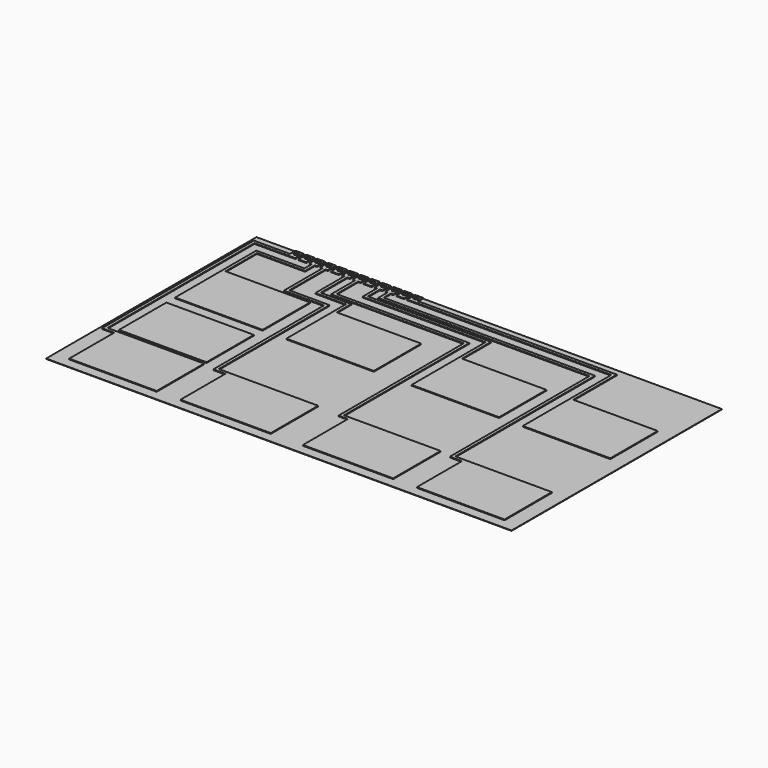
from build123d import *

# Parameters (mm, degrees)
F0_W     = 308
F0_H     = 174
F1_DEPTH = 0.25
F2_R     = 1.6
F2_W     = 57.88946
F2_H     = 39.180715
F3_DEPTH = 0.5


with BuildPart() as f1:
    # F0 (on Top) → F1 (new body)
    with BuildSketch(Plane.XY):
        Rectangle(F0_W, F0_H)
    extrude(amount=F1_DEPTH)

    # F2 (on face) → F3 (join)
    with BuildSketch(Plane.XY.offset(0.25)):
        Polygon((-86.945909, 80.4), (-86.945909, 87), (-92.145909, 87), (-92.145909, 80.4), (-90.545909, 80.4), (-88.545909, 80.4), align=None)
        with Locations((-89.545909, 84.5)):
            Circle(F2_R, mode=Mode.SUBTRACT)
        Polygon((-88.545909, 58.4), (-88.545909, 80.4), (-90.545909, 80.4), (-90.545909, 56.4), (-70.383385, 56.4), (-70.383385, 46.4), (-68.383385, 46.4), (-68.383385, 58.4), align=None)
        Polygon((-12.493925, 46.4), (-68.383385, 46.4), (-70.383385, 46.4), (-70.383385, 7.219285), (-12.493925, 7.219285), align=None)
        Polygon((-94.145909, 87), (-99.345909, 87), (-99.345909, 80.4), (-97.745909, 80.4), (-95.745909, 80.4), (-94.145909, 80.4), align=None)
        with Locations((-96.745909, 84.5)):
            Circle(F2_R, mode=Mode.SUBTRACT)
        Polygon((-101.345909, 87), (-106.545909, 87), (-106.545909, 80.4), (-104.945909, 80.4), (-102.945909, 80.4), (-101.345909, 80.4), align=None)
        with Locations((-103.945909, 84.5)):
            Circle(F2_R, mode=Mode.SUBTRACT)
        Polygon((-102.945909, 80.4), (-104.945909, 80.4), (-104.945909, 48.4), (-78.383385, 48.4), (-78.383385, -43.180715), (-70.383385, -43.180715), (-70.383385, -41.180715), (-76.383385, -41.180715), (-76.383385, 50.4), (-102.945909, 50.4), align=None)
        Polygon((-70.383385, -41.180715), (-70.383385, -43.180715), (-70.383385, -80.36143), (-10.637844, -80.36143), (-10.637844, -41.180715), align=None)
        Polygon((-108.545909, 87), (-113.745909, 87), (-113.745909, 80.4), (-112.145909, 80.4), (-110.145909, 80.4), (-108.545909, 80.4), align=None)
        with Locations((-111.145909, 84.5)):
            Circle(F2_R, mode=Mode.SUBTRACT)
        Polygon((-110.145909, 80.4), (-112.145909, 80.4), (-112.145909, 74.4), (-144, 74.4), (-144, 46.4), (-142, 46.4), (-142, 72.4), (-110.145909, 72.4), align=None)
        Polygon((-142, 46.4), (-144, 46.4), (-144, 7.219285), (-86.11054, 7.219285), (-86.11054, 46.4), align=None)
        Polygon((-115.745909, 87), (-120.945909, 87), (-120.945909, 80.4), (-119.345909, 80.4), (-117.345909, 80.4), (-115.745909, 80.4), align=None)
        with Locations((-118.345909, 84.5)):
            Circle(F2_R, mode=Mode.SUBTRACT)
        Polygon((-122.945909, 87), (-128.145909, 87), (-128.145909, 82.4), (-128.145909, 80.4), (-122.945909, 80.4), align=None)
        with Locations((-125.545909, 84.5)):
            Circle(F2_R, mode=Mode.SUBTRACT)
        Polygon((-128.145909, 80.4), (-128.145909, 82.4), (-152, 82.4), (-152, -43.180715), (-144, -43.180715), (-144, -41.180715), (-150, -41.180715), (-150, 80.4), align=None)
        Polygon((-144, -41.180715), (-144, -43.180715), (-144, -80.36143), (-86.11054, -80.36143), (-86.11054, -41.180715), align=None)
        Polygon((-81.345909, 80.4), (-79.745909, 80.4), (-79.745909, 87), (-84.945909, 87), (-84.945909, 80.4), (-83.345909, 80.4), align=None)
        with Locations((-82.345909, 84.5)):
            Circle(F2_R, mode=Mode.SUBTRACT)
        Polygon((-81.345909, 62.4), (-81.345909, 80.4), (-83.345909, 80.4), (-83.345909, 60.4), (4.493925, 60.4), (4.493925, -43.180715), (10.637844, -43.180715), (10.637844, -41.180715), (6.493925, -41.180715), (6.493925, 62.4), align=None)
        Polygon((70.383385, -41.180715), (10.637844, -41.180715), (10.637844, -43.180715), (10.637844, -80.36143), (70.383385, -80.36143), align=None)
        Polygon((-72.545909, 87), (-77.745909, 87), (-77.745909, 80.4), (-76.145909, 80.4), (-74.145909, 80.4), (-72.545909, 80.4), align=None)
        with Locations((-75.145909, 84.5)):
            Circle(F2_R, mode=Mode.SUBTRACT)
        Polygon((-65.345909, 87), (-70.545909, 87), (-70.545909, 80.4), (-68.945909, 80.4), (-66.945909, 80.4), (-65.345909, 80.4), align=None)
        with Locations((-67.945909, 84.5)):
            Circle(F2_R, mode=Mode.SUBTRACT)
        Polygon((-66.945909, 80.4), (-68.945909, 80.4), (-68.945909, 68.4), (12.493925, 68.4), (12.493925, 46.4), (14.493925, 46.4), (14.493925, 70.4), (-66.945909, 70.4), align=None)
        Polygon((14.493925, 46.4), (12.493925, 46.4), (12.493925, 7.219285), (70.383385, 7.219285), (70.383385, 46.4), align=None)
        Polygon((-58.145909, 87), (-63.345909, 87), (-63.345909, 80.4), (-61.745909, 80.4), (-59.745909, 80.4), (-58.145909, 80.4), align=None)
        with Locations((-60.745909, 84.5)):
            Circle(F2_R, mode=Mode.SUBTRACT)
        Polygon((-59.745909, 80.4), (-61.745909, 80.4), (-61.745909, 72.4), (78.11054, 72.4), (78.11054, -43.180715), (86.11054, -43.180715), (86.11054, -41.180715), (80.11054, -41.180715), (80.11054, 74.4), (-59.745909, 74.4), align=None)
        Polygon((86.11054, -41.180715), (86.11054, -43.180715), (86.11054, -80.36143), (144.087264, -80.36143), (144, -41.180715), align=None)
        Polygon((-50.945909, 87), (-56.145909, 87), (-56.145909, 80.4), (-54.545909, 80.4), (-52.545909, 80.4), (-50.945909, 80.4), align=None)
        with Locations((-53.545909, 84.5)):
            Circle(F2_R, mode=Mode.SUBTRACT)
        Polygon((-43.745909, 87), (-48.945909, 87), (-48.945909, 80.4), (-43.745909, 80.4), (-43.745909, 82.4), align=None)
        with Locations((-46.345909, 84.5)):
            Circle(F2_R, mode=Mode.SUBTRACT)
        Polygon((-43.745909, 82.4), (-43.745909, 80.4), (86.11054, 80.4), (86.11054, 46.4), (88.11054, 46.4), (88.11054, 82.4), align=None)
        Polygon((88.11054, 46.4), (86.11054, 46.4), (86.11054, 7.219285), (144, 7.219285), (144, 46.4), align=None)
        with Locations((-115.05527, -19.590357)):
            Rectangle(F2_W, F2_H)
    extrude(amount=F3_DEPTH)


solid = f1.part
